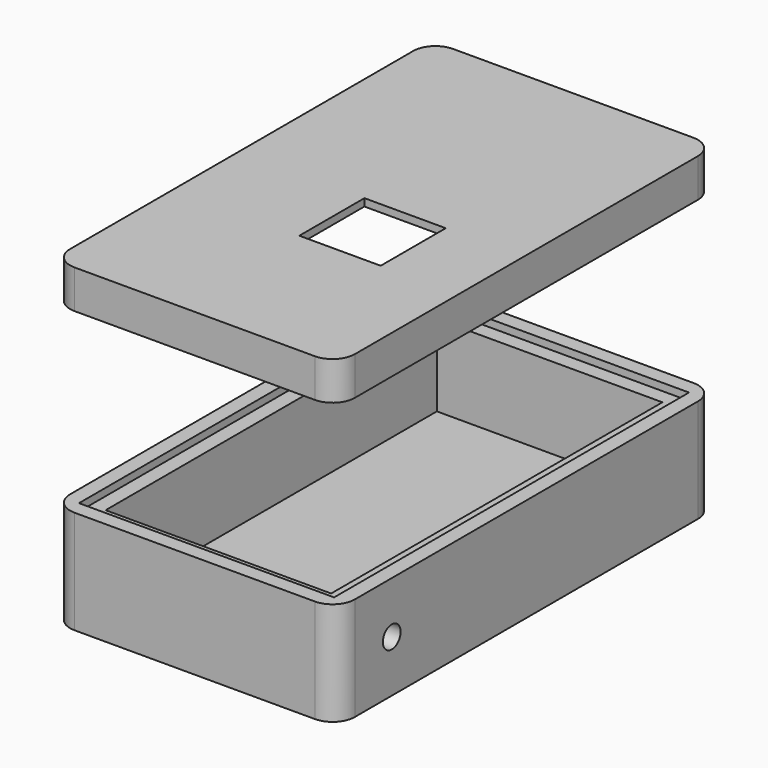
from build123d import *

# Parameters (mm, degrees)
F0_W      = 38.5
F0_H      = 64
F0_W_2    = 34.5
F0_H_2    = 60
F0_W_3    = 30.5
F0_H_3    = 56
F1_DEPTH  = 13
F2_DEPTH  = 1
F3_DEPTH  = 11
F4_R      = 3
F5_R      = 1.5
F6_DEPTH  = 38.501
F8_W      = 38.5
F8_H      = 64
F8_W_2    = 34.5
F8_H_2    = 60
F8_W_3    = 30.5
F8_H_3    = 56
F8_W_4    = 11
F8_H_4    = 11
F9_DEPTH  = 5.2
F10_DEPTH = 4.2
F11_R     = 3


with BuildPart() as f1:
    # F0 (on Top) → F1 (new body)
    with BuildSketch(Plane.XY):
        Rectangle(F0_W, F0_H)
        Rectangle(F0_W_2, F0_H_2, mode=Mode.SUBTRACT)
        Rectangle(F0_W_2, F0_H_2)
        Rectangle(F0_W_3, F0_H_3, mode=Mode.SUBTRACT)
        Rectangle(F0_W_3, F0_H_3)
    extrude(amount=-F1_DEPTH)

    # F0 (on Top) → F2 (join)
    with BuildSketch(Plane.XY):
        Rectangle(F0_W, F0_H)
        Rectangle(F0_W_2, F0_H_2, mode=Mode.SUBTRACT)
    extrude(amount=F2_DEPTH)

    # F0 (on Top) → F3 (cut)
    with BuildSketch(Plane.XY):
        Rectangle(F0_W_3, F0_H_3)
    extrude(amount=-F3_DEPTH, mode=Mode.SUBTRACT)

    # F4
    f4_edges = [f1.edges().sort_by_distance(p)[0] for p in [
        (-19.25, -32, -6),
        (19.25, -32, -6),
        (19.25, 32, -6),
        (-19.25, 32, -6),
    ]]
    fillet(f4_edges, radius=F4_R)

    # F5 (on face) → F6 (cut, through all)
    with BuildSketch(Plane(origin=(-19.25, 0, 0), x_dir=(0, -1, 0), z_dir=(-1, 0, 0))):
        with Locations((22.75, -6)):
            Circle(F5_R)
    extrude(amount=-F6_DEPTH, mode=Mode.SUBTRACT)


with BuildPart() as f9:
    # F8 (on offset) → F9 (new body)
    with BuildSketch(Plane.XY.offset(25)):
        Rectangle(F8_W, F8_H)
        Rectangle(F8_W_2, F8_H_2, mode=Mode.SUBTRACT)
        Rectangle(F8_W_2, F8_H_2)
        Rectangle(F8_W_3, F8_H_3, mode=Mode.SUBTRACT)
        Rectangle(F8_W_3, F8_H_3)
        with Locations((3.25, -6)):
            Rectangle(F8_W_4, F8_H_4, mode=Mode.SUBTRACT)
    extrude(amount=F9_DEPTH)

    # F8 (on offset) → F10 (cut)
    with BuildSketch(Plane.XY.offset(25)):
        Rectangle(F8_W_2, F8_H_2)
        Rectangle(F8_W_3, F8_H_3, mode=Mode.SUBTRACT)
        Rectangle(F8_W_3, F8_H_3)
        with Locations((3.25, -6)):
            Rectangle(F8_W_4, F8_H_4, mode=Mode.SUBTRACT)
    extrude(amount=F10_DEPTH, mode=Mode.SUBTRACT)

    # F11
    f11_edges = [f9.edges().sort_by_distance(p)[0] for p in [
        (-19.25, -32, 27.6),
        (19.25, -32, 27.6),
        (19.25, 32, 27.6),
        (-19.25, 32, 27.6),
    ]]
    fillet(f11_edges, radius=F11_R)


solid = Compound([f1.part, f9.part])
